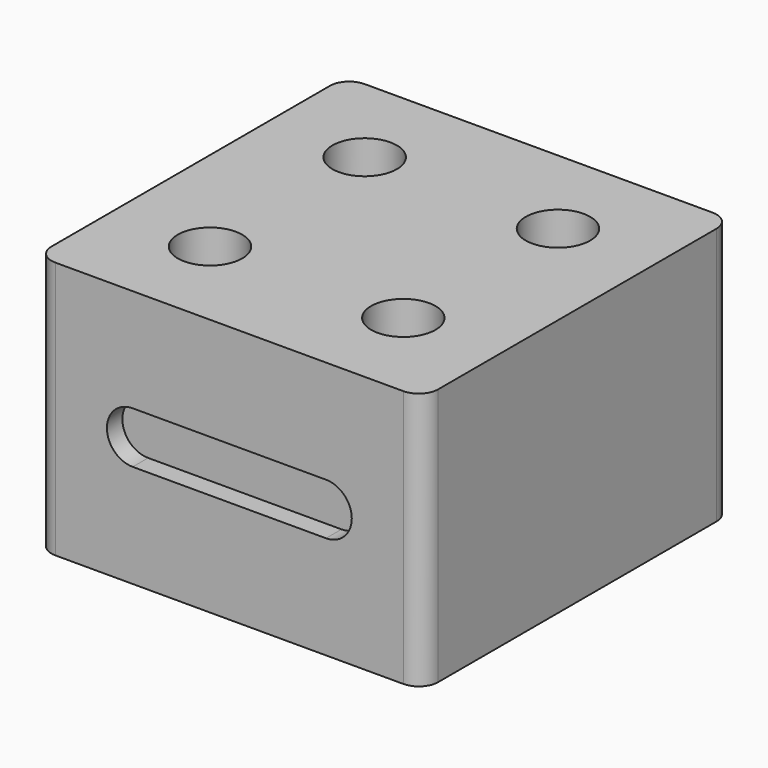
from build123d import *

# Parameters (mm, degrees)
SKETCH_W     = 60
SKETCH_H     = 60
SKETCH_R     = 5
PAD_DEPTH    = 40
POCKET_DEPTH = 3
FILLET_R     = 3


with BuildPart() as part:
    # Sketch → Pad (new body)
    with BuildSketch(Plane.XY):
        Rectangle(SKETCH_W, SKETCH_H)
        with Locations((-15, 15)):
            Circle(SKETCH_R, mode=Mode.SUBTRACT)
        with Locations((15, 15)):
            Circle(SKETCH_R, mode=Mode.SUBTRACT)
        with Locations((-15, -15)):
            Circle(SKETCH_R, mode=Mode.SUBTRACT)
        with Locations((15, -15)):
            Circle(SKETCH_R, mode=Mode.SUBTRACT)
    extrude(amount=PAD_DEPTH)

    # Sketch001 (on Face4 of Pad) → Pocket (cut)
    with BuildSketch(Plane.XZ.offset(30)):
        with BuildLine():
            ThreePointArc((-15, 24), (-19, 20), (-15, 16))
            Line((-15, 16), (15, 16))
            ThreePointArc((15, 16), (19, 20), (15, 24))
            Line((-15, 24), (15, 24))
        make_face()
    extrude(amount=-POCKET_DEPTH, mode=Mode.SUBTRACT)

    # Fillet
    fillet_edges = [part.edges().sort_by_distance(p)[0] for p in [
        (30, -30, 20),
        (30, 30, 20),
        (-30, -30, 20),
        (-30, 30, 20),
    ]]
    fillet(fillet_edges, radius=FILLET_R)


solid = part.part
